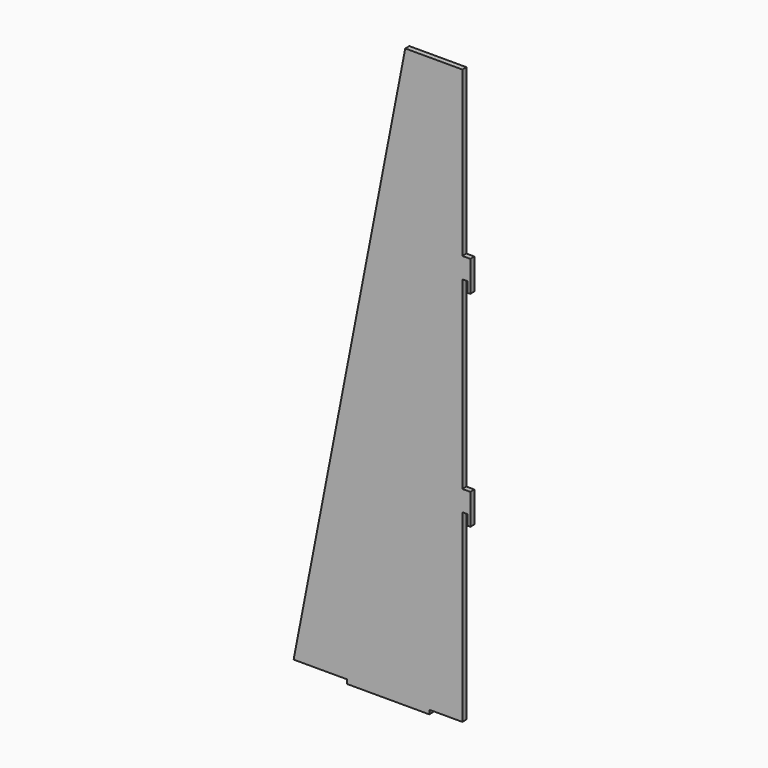
from build123d import *

# Parameters (mm, degrees)
F1_DEPTH = 2.5
F3_DEPTH = 25


with BuildPart() as f1:
    # F0 (on Front) → F1 (new body)
    with BuildSketch(Plane.XZ):
        Polygon((-31.706513, 280), (-86.133, 0), (-60, 0), (-60, -2), (-20, -2), (-20, 0), (0, 0), (0, 280), align=None)
    extrude(amount=F1_DEPTH)

    # F2 (on Front) → F3 (cut)
    with BuildSketch(Plane.XZ):
        Polygon((25.523714, 0), (25.523714, 285.471179), (-3.88, 285.471179), (-3.88, 200), (3.67, 200), (3.67, 185), (-1.33, 185), (-1.33, 190), (-3.88, 190), (-3.88, 100), (3.67, 100), (3.67, 85), (-1.33, 85), (-1.33, 90), (-3.88, 90), (-3.88, 0), align=None)
    extrude(amount=F3_DEPTH, mode=Mode.SUBTRACT)


solid = f1.part
